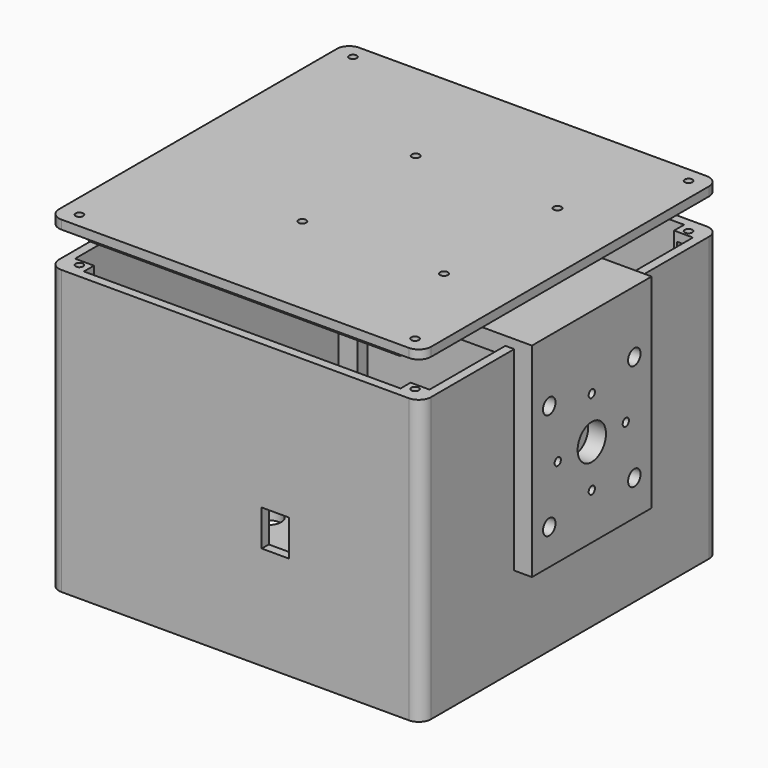
from build123d import *

# Parameters (mm, degrees)
PAD_DEPTH       = 160
SKETCH001_W     = 200
SKETCH001_H     = 200
POCKET_DEPTH    = 155.001
SKETCH003_W     = 10.65
SKETCH003_H     = 7.1
SKETCH003_R     = 2.125
PAD001_DEPTH    = 155
SKETCH005_W     = 10.65
SKETCH005_H     = 7.1
SKETCH005_R     = 2.125
PAD002_DEPTH    = 155
SKETCH006_W     = 10.65
SKETCH006_H     = 7.1
SKETCH006_R     = 2.125
PAD003_DEPTH    = 155
SKETCH007_W     = 10.65
SKETCH007_H     = 7.1
SKETCH007_R     = 2.125
PAD004_DEPTH    = 155
SKETCH004_W     = 7.1
SKETCH004_H     = 3.7
POCKET001_DEPTH = 8.1
SKETCH008_W     = 7.1
SKETCH008_H     = 3.7
POCKET002_DEPTH = 8.1
SKETCH009_W     = 7.1
SKETCH009_H     = 3.7
POCKET003_DEPTH = 8.1
SKETCH010_W     = 7.1
SKETCH010_H     = 3.7
POCKET004_DEPTH = 8.1
SKETCH011_R     = 10.2
SKETCH011_R_2   = 2.2
SKETCH011_R_3   = 7
SKETCH011_W     = 5
SKETCH011_H     = 1.5
POCKET005_DEPTH = 5.001
SKETCH021_W     = 15.4
SKETCH021_H     = 20.4
POCKET010_DEPTH = 5
SKETCH022_R     = 17.5
POCKET011_DEPTH = 5
PAD005_DEPTH    = 5
SKETCH014_W     = 175.7
SKETCH014_H     = 197
PAD006_DEPTH    = 5
SKETCH015_W     = 10.65
SKETCH015_H     = 182.8
PAD007_DEPTH    = 5
SKETCH016_W     = 10.65
SKETCH016_H     = 182.8
PAD008_DEPTH    = 5
SKETCH017_R     = 2.125
POCKET006_DEPTH = 5
SKETCH020_R     = 2.125
POCKET007_DEPTH = 5
SKETCH018_R     = 2.125
POCKET008_DEPTH = 5
SKETCH019_R     = 2.125
POCKET009_DEPTH = 5
SKETCH030_W     = 134.498554
SKETCH030_H     = 168.621071
POCKET018_DEPTH = 5
SKETCH031_R     = 2.2
POCKET019_DEPTH = 5
PAD009_DEPTH    = 84.4
SKETCH025_R     = 2.2
POCKET013_DEPTH = 10
SKETCH026_R     = 2.2
SKETCH026_R_2   = 10
POCKET014_DEPTH = 10
SKETCH027_R     = 4.4
POCKET015_DEPTH = 3
SKETCH029_R     = 4.4
POCKET017_DEPTH = 7


with BuildPart() as body:
    # Sketch → Pad (new body)
    with BuildSketch(Plane.XY.offset(-5)):
        with BuildLine():
            Line((-98, 105), (98, 105))
            ThreePointArc((105, 98), (102.949747, 102.949747), (98, 105))
            Line((105, 98), (105, -98))
            ThreePointArc((98, -105), (102.949747, -102.949747), (105, -98))
            Line((98, -105), (-98, -105))
            ThreePointArc((-105, -98), (-102.949747, -102.949747), (-98, -105))
            Line((-105, -98), (-105, 98))
            ThreePointArc((-98, 105), (-102.949747, 102.949747), (-105, 98))
        make_face()
    extrude(amount=PAD_DEPTH)

    # Sketch001 → Pocket (cut, through all)
    with BuildSketch(Plane.XY):
        Rectangle(SKETCH001_W, SKETCH001_H)
    extrude(amount=POCKET_DEPTH, mode=Mode.SUBTRACT)

    # Sketch003 → Pad001 (join)
    with BuildSketch(Plane.XY):
        with Locations((-94.675, 96.45)):
            Rectangle(SKETCH003_W, SKETCH003_H)
        with Locations((-94.675, 96.45)):
            Circle(SKETCH003_R, mode=Mode.SUBTRACT)
    extrude(amount=PAD001_DEPTH)

    # Sketch005 → Pad002 (join)
    with BuildSketch(Plane.XY):
        with Locations((94.675, 96.45)):
            Rectangle(SKETCH005_W, SKETCH005_H)
        with Locations((94.675, 96.45)):
            Circle(SKETCH005_R, mode=Mode.SUBTRACT)
    extrude(amount=PAD002_DEPTH)

    # Sketch006 → Pad003 (join)
    with BuildSketch(Plane.XY):
        with Locations((-94.675, -96.45)):
            Rectangle(SKETCH006_W, SKETCH006_H)
        with Locations((-94.675, -96.45)):
            Circle(SKETCH006_R, mode=Mode.SUBTRACT)
    extrude(amount=PAD003_DEPTH)

    # Sketch007 → Pad004 (join)
    with BuildSketch(Plane.XY):
        with Locations((94.675, -96.45)):
            Rectangle(SKETCH007_W, SKETCH007_H)
        with Locations((94.675, -96.45)):
            Circle(SKETCH007_R, mode=Mode.SUBTRACT)
    extrude(amount=PAD004_DEPTH)

    # Sketch004 (on Face18 of Pad001) → Pocket001 (cut)
    with BuildSketch(Plane(origin=(0, 92.9, -5), x_dir=(1, 0, 0), z_dir=(0, -1, 0))):
        with Locations((-94.675, 153.15)):
            Rectangle(SKETCH004_W, SKETCH004_H)
    extrude(amount=-POCKET001_DEPTH, mode=Mode.SUBTRACT)

    # Sketch008 (on Face18 of Pad001) → Pocket002 (cut)
    with BuildSketch(Plane(origin=(0, 92.9, -5), x_dir=(1, 0, 0), z_dir=(0, -1, 0))):
        with Locations((94.675, 153.15)):
            Rectangle(SKETCH008_W, SKETCH008_H)
    extrude(amount=-POCKET002_DEPTH, mode=Mode.SUBTRACT)

    # Sketch009 (on Face30 of Pocket002) → Pocket003 (cut)
    with BuildSketch(Plane(origin=(0, -92.9, -5), x_dir=(-1, 0, 0), z_dir=(0, 1, 0))):
        with Locations((-94.675, 153.15)):
            Rectangle(SKETCH009_W, SKETCH009_H)
    extrude(amount=-POCKET003_DEPTH, mode=Mode.SUBTRACT)

    # Sketch010 (on Face30 of Pocket002) → Pocket004 (cut)
    with BuildSketch(Plane(origin=(0, -92.9, -5), x_dir=(-1, 0, 0), z_dir=(0, 1, 0))):
        with Locations((94.675, 153.15)):
            Rectangle(SKETCH010_W, SKETCH010_H)
    extrude(amount=-POCKET004_DEPTH, mode=Mode.SUBTRACT)

    # Sketch011 → Pocket005 (cut, through all)
    with BuildSketch(Plane.XY):
        Circle(SKETCH011_R)
        with Locations((0, 25)):
            Circle(SKETCH011_R_2)
        with Locations((25, 0)):
            Circle(SKETCH011_R_2)
        with Locations((-25, 0)):
            Circle(SKETCH011_R_2)
        with Locations((0, -25)):
            Circle(SKETCH011_R_2)
        with Locations((-65, 0)):
            Circle(SKETCH011_R_3)
        with Locations((67.5, 0)):
            Rectangle(SKETCH011_W, SKETCH011_H)
    extrude(amount=-POCKET005_DEPTH, mode=Mode.SUBTRACT)

    # Sketch021 (on Face6 of Pocket005) → Pocket010 (cut)
    with BuildSketch(Plane(origin=(0, -105, -5), x_dir=(1, 0, 0), z_dir=(0, -1, 0))):
        with Locations((22.7, 68.533333)):
            Rectangle(SKETCH021_W, SKETCH021_H)
    extrude(amount=-POCKET010_DEPTH, mode=Mode.SUBTRACT)

    # Sketch022 (on Face10 of Pocket010) → Pocket011 (cut)
    with BuildSketch(Plane(origin=(105, 0, -5), x_dir=(0, 1, 0), z_dir=(1, 0, 0))):
        with Locations((0, 130)):
            Circle(SKETCH022_R)
    extrude(amount=-POCKET011_DEPTH, mode=Mode.SUBTRACT)


with BuildPart() as lid:
    # Sketch013 → Pad005 (new body)
    with BuildSketch(Plane.XY):
        with BuildLine():
            Line((-98, 105), (98, 105))
            ThreePointArc((105, 98), (102.949747, 102.949747), (98, 105))
            Line((105, 98), (105, -98))
            ThreePointArc((98, -105), (102.949747, -102.949747), (105, -98))
            Line((98, -105), (-98, -105))
            ThreePointArc((-105, -98), (-102.949747, -102.949747), (-98, -105))
            Line((-105, -98), (-105, 98))
            ThreePointArc((-98, 105), (-102.949747, 102.949747), (-105, 98))
        make_face()
    extrude(amount=PAD005_DEPTH)

    # Sketch014 (on Face9 of Pad005) → Pad006 (join)
    with BuildSketch(Plane(origin=(0, 0, 0), x_dir=(1, 0, 0), z_dir=(0, 0, -1))):
        Rectangle(SKETCH014_W, SKETCH014_H)
    extrude(amount=PAD006_DEPTH)

    # Sketch015 (on Face4 of Pad006) → Pad007 (join)
    with BuildSketch(Plane(origin=(0, 0, 0), x_dir=(1, 0, 0), z_dir=(0, 0, -1))):
        with Locations((93.175, 1.5)):
            Rectangle(SKETCH015_W, SKETCH015_H)
    extrude(amount=PAD007_DEPTH)

    # Sketch016 (on Face4 of Pad007) → Pad008 (join)
    with BuildSketch(Plane(origin=(0, 0, 0), x_dir=(1, 0, 0), z_dir=(0, 0, -1))):
        with Locations((-93.175, 1.5)):
            Rectangle(SKETCH016_W, SKETCH016_H)
    extrude(amount=PAD008_DEPTH)

    # Sketch017 (on Face4 of Pad008) → Pocket006 (cut)
    with BuildSketch(Plane(origin=(0, 0, 0), x_dir=(1, 0, 0), z_dir=(0, 0, -1))):
        with Locations((-94.675, 96.45)):
            Circle(SKETCH017_R)
    extrude(amount=-POCKET006_DEPTH, mode=Mode.SUBTRACT)

    # Sketch020 (on Face4 of Pad008) → Pocket007 (cut)
    with BuildSketch(Plane(origin=(0, 0, 0), x_dir=(1, 0, 0), z_dir=(0, 0, -1))):
        with Locations((-94.675, -96.45)):
            Circle(SKETCH020_R)
    extrude(amount=-POCKET007_DEPTH, mode=Mode.SUBTRACT)

    # Sketch018 (on Face4 of Pad008) → Pocket008 (cut)
    with BuildSketch(Plane(origin=(0, 0, 0), x_dir=(1, 0, 0), z_dir=(0, 0, -1))):
        with Locations((94.675, 96.45)):
            Circle(SKETCH018_R)
    extrude(amount=-POCKET008_DEPTH, mode=Mode.SUBTRACT)

    # Sketch019 (on Face4 of Pad008) → Pocket009 (cut)
    with BuildSketch(Plane(origin=(0, 0, 0), x_dir=(1, 0, 0), z_dir=(0, 0, -1))):
        with Locations((94.675, -96.45)):
            Circle(SKETCH019_R)
    extrude(amount=-POCKET009_DEPTH, mode=Mode.SUBTRACT)

    # Sketch030 → Pocket018 (cut)
    with BuildSketch(Plane(origin=(0, 0, -5), x_dir=(1, 0, 0), z_dir=(0, 0, -1))):
        with Locations((5.600233, 0.604878)):
            Rectangle(SKETCH030_W, SKETCH030_H)
    extrude(amount=-POCKET018_DEPTH, mode=Mode.SUBTRACT)

    # Sketch031 (on Face5 of Pocket018) → Pocket019 (cut)
    with BuildSketch(Plane.XY.offset(5)):
        with Locations((-14.109258, 40)):
            Circle(SKETCH031_R)
        with Locations((65.890742, 40)):
            Circle(SKETCH031_R)
        with Locations((65.890742, -40)):
            Circle(SKETCH031_R)
        with Locations((-14.109258, -40)):
            Circle(SKETCH031_R)
    extrude(amount=-POCKET019_DEPTH, mode=Mode.SUBTRACT)


with BuildPart() as lid_1:
    # Body001 placement: moved
    add(lid.part.moved(Location((0, 0, 175))))


with BuildPart() as dish_mount:
    # Sketch024 → Pad009 (new body)
    with BuildSketch(Plane.XZ):
        Polygon((45.6, -10), (105, -10), (105, -115), (115, -115), (115, 0), (45.6, 0), align=None)
    extrude(amount=PAD009_DEPTH)

    # Sketch025 (on Face5 of Pad009) → Pocket013 (cut)
    with BuildSketch(Plane(origin=(0, 0, 0), x_dir=(-1, 0, 0), z_dir=(0, 0, 1))):
        with Locations((-65, 12.2)):
            Circle(SKETCH025_R)
        with Locations((-65, 72.2)):
            Circle(SKETCH025_R)
    extrude(amount=-POCKET013_DEPTH, mode=Mode.SUBTRACT)

    # Sketch026 (on Face10 of Pocket013) → Pocket014 (cut)
    with BuildSketch(Plane(origin=(115, 0, 0), x_dir=(0, 0, 1), z_dir=(1, 0, 0))):
        with Locations((-35, 72.2)):
            Circle(SKETCH026_R)
        with Locations((-35, 12.2)):
            Circle(SKETCH026_R)
        with Locations((-95, 72.2)):
            Circle(SKETCH026_R)
        with Locations((-95, 12.2)):
            Circle(SKETCH026_R)
        with Locations((-65, 42.2)):
            Circle(SKETCH026_R_2)
        with Locations((-41, 42.2)):
            Circle(SKETCH026_R)
        with Locations((-89, 42.2)):
            Circle(SKETCH026_R)
        with Locations((-65, 18.2)):
            Circle(SKETCH026_R)
        with Locations((-65, 66.2)):
            Circle(SKETCH026_R)
    extrude(amount=-POCKET014_DEPTH, mode=Mode.SUBTRACT)

    # Sketch027 (on Face5 of Pocket014) → Pocket015 (cut)
    with BuildSketch(Plane(origin=(105, 0, 0), x_dir=(0, 0, -1), z_dir=(-1, 0, 0))):
        with Locations((41, 42.2)):
            Circle(SKETCH027_R)
        with Locations((89, 42.2)):
            Circle(SKETCH027_R)
        with Locations((65, 18.2)):
            Circle(SKETCH027_R)
        with Locations((65, 66.2)):
            Circle(SKETCH027_R)
    extrude(amount=-POCKET015_DEPTH, mode=Mode.SUBTRACT)

    # Sketch029 (on Face10 of Pocket015) → Pocket017 (cut)
    with BuildSketch(Plane(origin=(115, 0, 0), x_dir=(0, 0, 1), z_dir=(1, 0, 0))):
        with Locations((-35, 72.2)):
            Circle(SKETCH029_R)
        with Locations((-95, 12.2)):
            Circle(SKETCH029_R)
        with Locations((-95, 72.2)):
            Circle(SKETCH029_R)
        with Locations((-35, 12.2)):
            Circle(SKETCH029_R)
    extrude(amount=-POCKET017_DEPTH, mode=Mode.SUBTRACT)


with BuildPart() as dish_mount_1:
    # Body002 placement: moved
    add(dish_mount.part.moved(Location((0, 45, 160))))


solid = Compound([body.part, lid_1.part, dish_mount_1.part])
